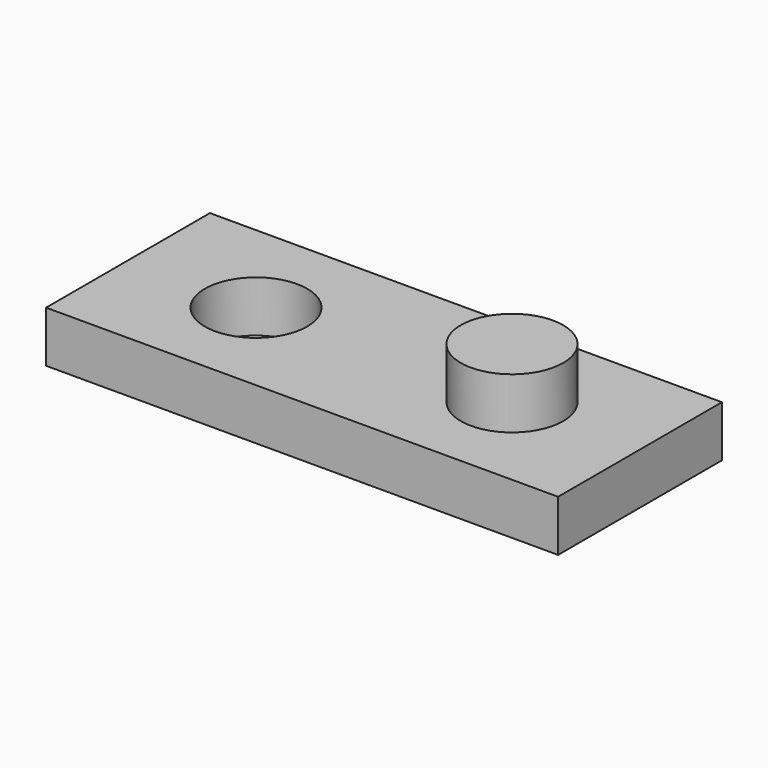
from build123d import *

# Parameters (mm, degrees)
F0_W     = 63.5
F0_H     = 25.4
F1_DEPTH = 6.35
F2_R     = 6.35
F3_DEPTH = 6.351
F4_R     = 6.35
F5_DEPTH = 6.35


with BuildPart() as f1:
    # F0 (on Top) → F1 (new body)
    with BuildSketch(Plane.XY):
        Rectangle(F0_W, F0_H)
    extrude(amount=F1_DEPTH)

    # F2 (on face) → F3 (cut, through all)
    with BuildSketch(Plane.XY.offset(6.35)):
        with Locations((-15.875, 0)):
            Circle(F2_R)
    extrude(amount=-F3_DEPTH, mode=Mode.SUBTRACT)

    # F4 (on face) → F5 (join)
    with BuildSketch(Plane.XY.offset(6.35)):
        with Locations((15.875, 0)):
            Circle(F4_R)
    extrude(amount=F5_DEPTH)


solid = f1.part
